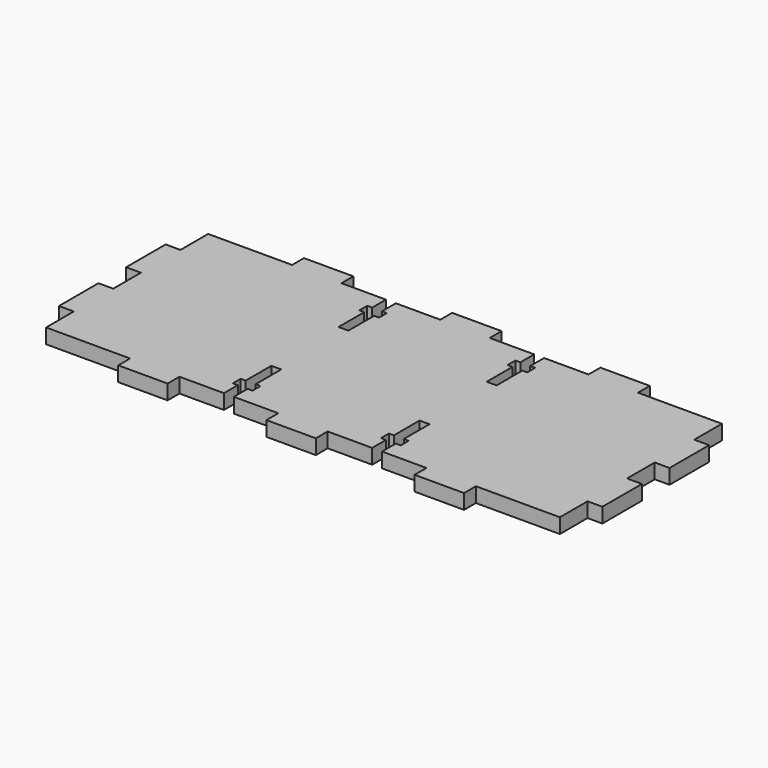
from build123d import *

# Parameters (mm, degrees)
F1_DEPTH = 3


with BuildPart() as f1:
    # F0 (on Top) → F1 (new body)
    with BuildSketch(Plane.XY):
        Polygon((52, 13.5), (52, 20.5), (35, 20.5), (35, 23.5), (25, 23.5), (25, 20.5), (16, 20.5), (16, 17), (17, 17), (17, 15), (16, 15), (16, 8.5), (14, 8.5), (14, 15), (13, 15), (13, 17), (14, 17), (14, 20.5), (5, 20.5), (5, 23.5), (-5, 23.5), (-5, 20.5), (-14, 20.5), (-14, 17), (-13, 17), (-13, 15), (-14, 15), (-14, 8.5), (-16, 8.5), (-16, 15), (-17, 15), (-17, 17), (-16, 17), (-16, 20.5), (-25, 20.5), (-25, 23.5), (-35, 23.5), (-35, 20.5), (-52, 20.5), (-52, 13.5), (-55, 13.5), (-55, 3.5), (-52, 3.5), (-52, -3.5), (-55, -3.5), (-55, -13.5), (-52, -13.5), (-52, -20.5), (-35, -20.5), (-35, -23.5), (-25, -23.5), (-25, -20.5), (-16, -20.5), (-16, -17), (-17, -17), (-17, -15), (-16, -15), (-16, -8.5), (-14, -8.5), (-14, -15), (-13, -15), (-13, -17), (-14, -17), (-14, -20.5), (-5, -20.5), (-5, -23.5), (5, -23.5), (5, -20.5), (14, -20.5), (14, -17), (13, -17), (13, -15), (14, -15), (14, -8.5), (16, -8.5), (16, -15), (17, -15), (17, -17), (16, -17), (16, -20.5), (25, -20.5), (25, -23.5), (35, -23.5), (35, -20.5), (52, -20.5), (52, -13.5), (55, -13.5), (55, -3.5), (52, -3.5), (52, 3.5), (55, 3.5), (55, 13.5), align=None)
    extrude(amount=F1_DEPTH)


solid = f1.part
